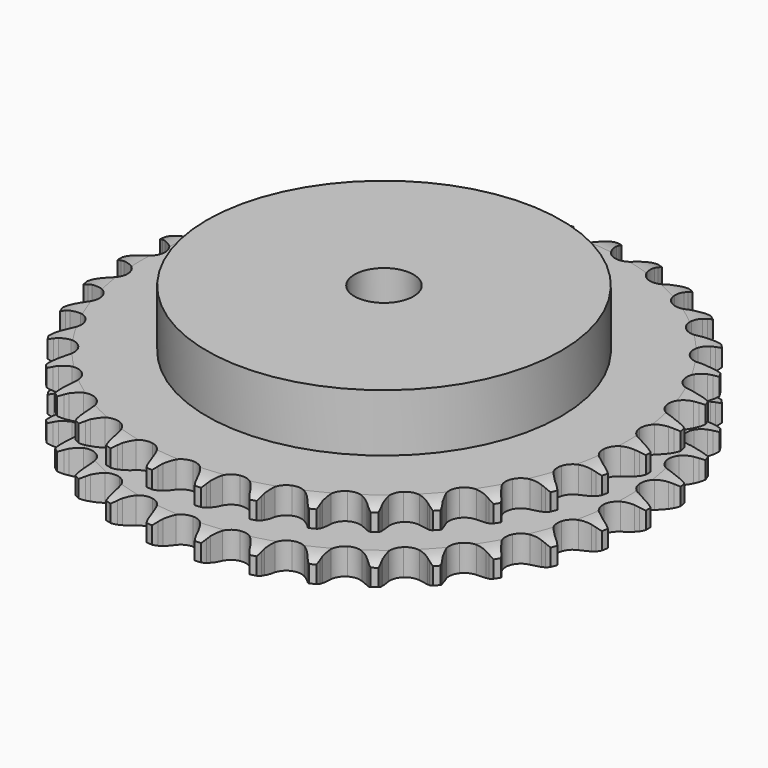
from build123d import *

# Parameters (mm, degrees)
PAD_DEPTH         = 25.5
SKETCH001_R       = 60
PAD001_DEPTH      = 45
SKETCH002_R       = 10
POCKET_DEPTH      = 0.001
POCKET_DEPTH_BACK = 45.001


with BuildPart() as part:
    # Sprocket → Pad (new body)
    with BuildSketch(Plane.XY):
        with BuildLine():
            ThreePointArc((-8.397927, 90.628064), (-7.241962, 89.220797), (-6.422502, 87.594409))
            Line((-6.422502, 87.594409), (-5.926845, 86.262465))
            ThreePointArc((-5.926845, 86.262465), (-5.142113, 84.540527), (-4.120459, 82.947699))
            ThreePointArc((-4.120459, 82.947699), (-2.304465, 81.427867), (0, 80.88274))
            ThreePointArc((0, 80.88274), (2.304465, 81.427867), (4.120459, 82.947699))
            ThreePointArc((4.120459, 82.947699), (5.142113, 84.540527), (5.926845, 86.262465))
            Line((5.926845, 86.262465), (6.422502, 87.594409))
            ThreePointArc((6.422502, 87.594409), (7.241962, 89.220797), (8.397927, 90.628064))
            ThreePointArc((8.397927, 90.628064), (9.275625, 89.032351), (9.782284, 87.28308))
            Line((9.782284, 87.28308), (10.024757, 85.882738))
            ThreePointArc((10.024757, 85.882738), (10.479723, 84.045925), (11.191299, 82.292489))
            ThreePointArc((11.191299, 82.292489), (12.697104, 80.464847), (14.862164, 79.505557))
            ThreePointArc((14.862164, 79.505557), (17.227559, 79.617958), (19.2919, 80.778225))
            Line((19.2919, 80.778225), (21.676616, 83.704628))
            ThreePointArc((21.676616, 83.704628), (22.026279, 84.323527), (22.408577, 84.922816))
            ThreePointArc((22.408577, 84.922816), (23.512932, 86.370937), (24.907799, 87.541834))
            ThreePointArc((24.907799, 87.541834), (25.477341, 85.812014), (25.653946, 83.99943))
            Line((25.653946, 83.99943), (25.634978, 82.578377))
            ThreePointArc((25.634978, 82.578377), (25.744684, 80.689239), (26.121952, 78.834908))
            ThreePointArc((26.121952, 78.834908), (27.266288, 76.761693), (29.218216, 75.420909))
            ThreePointArc((29.218216, 75.420909), (31.563988, 75.096756), (33.806379, 75.857945))
            Line((33.806379, 75.857945), (36.688215, 78.29633))
            ThreePointArc((36.688215, 78.29633), (37.145647, 78.840441), (37.631555, 79.359279))
            ThreePointArc((37.631555, 79.359279), (38.983198, 80.579818), (40.569466, 81.474471))
            ThreePointArc((40.569466, 81.474471), (40.811457, 79.669453), (40.651993, 77.855279))
            Line((40.651993, 77.855279), (40.372231, 76.461908))
            ThreePointArc((40.372231, 76.461908), (40.13294, 74.584778), (40.163052, 72.692697))
            ThreePointArc((40.163052, 72.692697), (40.906952, 70.444512), (42.579276, 68.767891))
            ThreePointArc((42.579276, 68.767891), (44.825544, 68.018223), (47.169622, 68.354413))
            Line((47.169622, 68.354413), (50.450442, 70.221744))
            ThreePointArc((50.450442, 70.221744), (51.000065, 70.672538), (51.573036, 71.093256))
            ThreePointArc((51.573036, 71.093256), (53.125937, 72.044649), (54.849589, 72.632594))
            ThreePointArc((54.849589, 72.632594), (54.755788, 70.813843), (54.265686, 69.059861))
            Line((54.265686, 69.059861), (53.734656, 67.741621))
            ThreePointArc((53.734656, 67.741621), (53.154518, 65.940422), (52.836448, 64.075025))
            ThreePointArc((52.836448, 64.075025), (53.154579, 61.728428), (54.490349, 59.773066))
            ThreePointArc((54.490349, 59.773066), (56.56062, 58.623411), (58.92656, 58.523154))
            Line((58.92656, 58.523154), (62.494639, 59.755841))
            ThreePointArc((62.494639, 59.755841), (63.117736, 60.097966), (63.758258, 60.406238))
            ThreePointArc((63.758258, 60.406238), (65.459537, 61.056087), (67.261874, 61.3173))
            ThreePointArc((67.261874, 61.3173), (66.835476, 59.546753), (66.031425, 57.912692))
            Line((66.031425, 57.912692), (65.267211, 56.714474))
            ThreePointArc((65.267211, 56.714474), (64.365982, 55.050544), (63.710562, 53.275354))
            ThreePointArc((63.710562, 53.275354), (63.59209, 50.910256), (64.54582, 48.74274))
            ThreePointArc((64.54582, 48.74274), (66.369591, 47.23225), (68.676824, 46.698959))
            Line((68.676824, 46.698959), (72.410656, 47.255025))
            ThreePointArc((72.410656, 47.255025), (73.086009, 47.47683), (73.77227, 47.662158))
            ThreePointArc((73.77227, 47.662158), (75.56399, 47.988332), (77.383638, 47.91392))
            ThreePointArc((77.383638, 47.91392), (76.639163, 46.25187), (75.548544, 44.793376))
            Line((75.548544, 44.793376), (74.57717, 43.755984))
            ThreePointArc((74.57717, 43.755984), (73.38554, 42.285986), (72.415089, 40.661455))
            ThreePointArc((72.415089, 40.661455), (71.864049, 38.358396), (72.403259, 36.052539))
            ThreePointArc((72.403259, 36.052539), (73.918426, 34.232651), (76.088382, 33.284488))
            Line((76.088382, 33.284488), (79.860815, 33.144995))
            ThreePointArc((79.860815, 33.144995), (80.565426, 33.238928), (81.274055, 33.295))
            ThreePointArc((81.274055, 33.295), (83.095203, 33.286393), (84.870194, 32.878888))
            ThreePointArc((84.870194, 32.878888), (83.832994, 31.381935), (82.492948, 30.148675))
            Line((82.492948, 30.148675), (81.347493, 29.307436))
            ThreePointArc((81.347493, 29.307436), (79.906041, 28.081429), (78.653607, 26.662879))
            ThreePointArc((78.653607, 26.662879), (77.688764, 24.500287), (77.795093, 22.134612))
            ThreePointArc((77.795093, 22.134612), (78.950057, 20.0673), (80.908841, 18.736552))
            Line((80.908841, 18.736552), (84.591409, 17.906252))
            ThreePointArc((84.591409, 17.906252), (85.301283, 17.869114), (86.00815, 17.794021))
            ThreePointArc((86.00815, 17.794021), (87.796708, 17.450926), (89.466597, 16.724205))
            ThreePointArc((89.466597, 16.724205), (88.171993, 15.443326), (86.628153, 14.477297))
            Line((86.628153, 14.477297), (85.347625, 13.860859))
            ThreePointArc((85.347625, 13.860859), (83.705438, 12.920593), (82.213671, 11.75633))
            ThreePointArc((82.213671, 11.75633), (80.867881, 9.807851), (80.537708, 7.462918))
            ThreePointArc((80.537708, 7.462918), (81.293139, 5.218581), (82.974047, 3.550566))
            Line((82.974047, 3.550566), (86.441345, 2.057734))
            ThreePointArc((86.441345, 2.057734), (87.132308, 1.890789), (87.813341, 1.687088))
            ThreePointArc((87.813341, 1.687088), (89.508401, 1.021188), (91.016323, 0))
            ThreePointArc((91.016323, 0), (89.508401, -1.021188), (87.813341, -1.687088))
            Line((87.813341, -1.687088), (86.441345, -2.057734))
            ThreePointArc((86.441345, -2.057734), (84.654346, -2.680238), (82.974047, -3.550566))
            ThreePointArc((82.974047, -3.550566), (81.293139, -5.218581), (80.537708, -7.462918))
            ThreePointArc((80.537708, -7.462918), (80.867881, -9.807851), (82.213671, -11.75633))
            Line((82.213671, -11.75633), (85.347625, -13.860859))
            ThreePointArc((85.347625, -13.860859), (85.996146, -14.151925), (86.628153, -14.477297))
            ThreePointArc((86.628153, -14.477297), (88.171993, -15.443326), (89.466597, -16.724205))
            ThreePointArc((89.466597, -16.724205), (87.796708, -17.450926), (86.00815, -17.794021))
            Line((86.00815, -17.794021), (84.591409, -17.906252))
            ThreePointArc((84.591409, -17.906252), (82.720453, -18.189798), (80.908841, -18.736552))
            ThreePointArc((80.908841, -18.736552), (78.950057, -20.0673), (77.795093, -22.134612))
            ThreePointArc((77.795093, -22.134612), (77.688764, -24.500287), (78.653607, -26.662879))
            Line((78.653607, -26.662879), (81.347493, -29.307436))
            ThreePointArc((81.347493, -29.307436), (81.931489, -29.712712), (82.492948, -30.148675))
            ThreePointArc((82.492948, -30.148675), (83.832994, -31.381935), (84.870194, -32.878888))
            ThreePointArc((84.870194, -32.878888), (83.095203, -33.286393), (81.274055, -33.295))
            Line((81.274055, -33.295), (79.860815, -33.144995))
            ThreePointArc((79.860815, -33.144995), (77.969613, -33.079925), (76.088382, -33.284488))
            ThreePointArc((76.088382, -33.284488), (73.918426, -34.232651), (72.403259, -36.052539))
            ThreePointArc((72.403259, -36.052539), (71.864049, -38.358396), (72.415089, -40.661455))
            Line((72.415089, -40.661455), (74.57717, -43.755984))
            ThreePointArc((74.57717, -43.755984), (75.076753, -44.261668), (75.548544, -44.793376))
            ThreePointArc((75.548544, -44.793376), (76.639163, -46.25187), (77.383638, -47.91392))
            ThreePointArc((77.383638, -47.91392), (75.56399, -47.988332), (73.77227, -47.662158))
            Line((73.77227, -47.662158), (72.410656, -47.255025))
            ThreePointArc((72.410656, -47.255025), (70.563612, -46.843555), (68.676824, -46.698959))
            ThreePointArc((68.676824, -46.698959), (66.369591, -47.23225), (64.54582, -48.74274))
            ThreePointArc((64.54582, -48.74274), (63.59209, -50.910256), (63.710562, -53.275354))
            Line((63.710562, -53.275354), (65.267211, -56.714474))
            ThreePointArc((65.267211, -56.714474), (65.665369, -57.303346), (66.031425, -57.912692))
            ThreePointArc((66.031425, -57.912692), (66.835476, -59.546753), (67.261874, -61.3173))
            ThreePointArc((67.261874, -61.3173), (65.459537, -61.056087), (63.758258, -60.406238))
            Line((63.758258, -60.406238), (62.494639, -59.755841))
            ThreePointArc((62.494639, -59.755841), (60.754652, -59.011984), (58.92656, -58.523154))
            ThreePointArc((58.92656, -58.523154), (56.56062, -58.623411), (54.490349, -59.773066))
            ThreePointArc((54.490349, -59.773066), (53.154579, -61.728428), (52.836448, -64.075025))
            Line((52.836448, -64.075025), (53.734656, -67.741621))
            ThreePointArc((53.734656, -67.741621), (54.017829, -68.393628), (54.265686, -69.059861))
            ThreePointArc((54.265686, -69.059861), (54.755788, -70.813843), (54.849589, -72.632594))
            ThreePointArc((54.849589, -72.632594), (53.125937, -72.044649), (51.573036, -71.093256))
            Line((51.573036, -71.093256), (50.450442, -70.221744))
            ThreePointArc((50.450442, -70.221744), (48.876765, -69.170831), (47.169622, -68.354413))
            ThreePointArc((47.169622, -68.354413), (44.825544, -68.018223), (42.579276, -68.767891))
            ThreePointArc((42.579276, -68.767891), (40.906952, -70.444512), (40.163052, -72.692697))
            Line((40.163052, -72.692697), (40.372231, -76.461908))
            ThreePointArc((40.372231, -76.461908), (40.530776, -77.154846), (40.651993, -77.855279))
            ThreePointArc((40.651993, -77.855279), (40.811457, -79.669453), (40.569466, -81.474471))
            ThreePointArc((40.569466, -81.474471), (38.983198, -80.579818), (37.631555, -79.359279))
            Line((37.631555, -79.359279), (36.688215, -78.29633))
            ThreePointArc((36.688215, -78.29633), (35.334438, -76.974148), (33.806379, -75.857945))
            ThreePointArc((33.806379, -75.857945), (31.563988, -75.096756), (29.218216, -75.420909))
            ThreePointArc((29.218216, -75.420909), (27.266288, -76.761693), (26.121952, -78.834908))
            Line((26.121952, -78.834908), (25.634978, -82.578377))
            ThreePointArc((25.634978, -82.578377), (25.663497, -83.288649), (25.653946, -83.99943))
            ThreePointArc((25.653946, -83.99943), (25.477341, -85.812014), (24.907799, -87.541834))
            ThreePointArc((24.907799, -87.541834), (23.512932, -86.370937), (22.408577, -84.922816))
            Line((22.408577, -84.922816), (21.676616, -83.704628))
            ThreePointArc((21.676616, -83.704628), (20.58884, -82.156203), (19.2919, -80.778225))
            ThreePointArc((19.2919, -80.778225), (17.227559, -79.617958), (14.862164, -79.505557))
            ThreePointArc((14.862164, -79.505557), (12.697104, -80.464847), (11.191299, -82.292489))
            Line((11.191299, -82.292489), (10.024757, -85.882738))
            ThreePointArc((10.024757, -85.882738), (9.922278, -86.586157), (9.782284, -87.28308))
            ThreePointArc((9.782284, -87.28308), (9.275625, -89.032351), (8.397927, -90.628064))
            ThreePointArc((8.397927, -90.628064), (7.241962, -89.220797), (6.422502, -87.594409))
            Line((6.422502, -87.594409), (5.926845, -86.262465))
            ThreePointArc((5.926845, -86.262465), (5.142113, -84.540527), (4.120459, -82.947699))
            ThreePointArc((4.120459, -82.947699), (2.304465, -81.427867), (0, -80.88274))
            ThreePointArc((0, -80.88274), (-2.304465, -81.427867), (-4.120459, -82.947699))
            Line((-4.120459, -82.947699), (-5.926845, -86.262465))
            ThreePointArc((-5.926845, -86.262465), (-6.156832, -86.935077), (-6.422502, -87.594409))
            ThreePointArc((-6.422502, -87.594409), (-7.241962, -89.220797), (-8.397927, -90.628064))
            ThreePointArc((-8.397927, -90.628064), (-9.275625, -89.032351), (-9.782284, -87.28308))
            Line((-9.782284, -87.28308), (-10.024757, -85.882738))
            ThreePointArc((-10.024757, -85.882738), (-10.479723, -84.045925), (-11.191299, -82.292489))
            ThreePointArc((-11.191299, -82.292489), (-12.697104, -80.464847), (-14.862164, -79.505557))
            ThreePointArc((-14.862164, -79.505557), (-17.227559, -79.617958), (-19.2919, -80.778225))
            Line((-19.2919, -80.778225), (-21.676616, -83.704628))
            ThreePointArc((-21.676616, -83.704628), (-22.026279, -84.323527), (-22.408577, -84.922816))
            ThreePointArc((-22.408577, -84.922816), (-23.512932, -86.370937), (-24.907799, -87.541834))
            ThreePointArc((-24.907799, -87.541834), (-25.477341, -85.812014), (-25.653946, -83.99943))
            Line((-25.653946, -83.99943), (-25.634978, -82.578377))
            ThreePointArc((-25.634978, -82.578377), (-25.744684, -80.689239), (-26.121952, -78.834908))
            ThreePointArc((-26.121952, -78.834908), (-27.266288, -76.761693), (-29.218216, -75.420909))
            ThreePointArc((-29.218216, -75.420909), (-31.563988, -75.096756), (-33.806379, -75.857945))
            Line((-33.806379, -75.857945), (-36.688215, -78.29633))
            ThreePointArc((-36.688215, -78.29633), (-37.145647, -78.840441), (-37.631555, -79.359279))
            ThreePointArc((-37.631555, -79.359279), (-38.983198, -80.579818), (-40.569466, -81.474471))
            ThreePointArc((-40.569466, -81.474471), (-40.811457, -79.669453), (-40.651993, -77.855279))
            Line((-40.651993, -77.855279), (-40.372231, -76.461908))
            ThreePointArc((-40.372231, -76.461908), (-40.13294, -74.584778), (-40.163052, -72.692697))
            ThreePointArc((-40.163052, -72.692697), (-40.906952, -70.444512), (-42.579276, -68.767891))
            ThreePointArc((-42.579276, -68.767891), (-44.825544, -68.018223), (-47.169622, -68.354413))
            Line((-47.169622, -68.354413), (-50.450442, -70.221744))
            ThreePointArc((-50.450442, -70.221744), (-51.000065, -70.672538), (-51.573036, -71.093256))
            ThreePointArc((-51.573036, -71.093256), (-53.125937, -72.044649), (-54.849589, -72.632594))
            ThreePointArc((-54.849589, -72.632594), (-54.755788, -70.813843), (-54.265686, -69.059861))
            Line((-54.265686, -69.059861), (-53.734656, -67.741621))
            ThreePointArc((-53.734656, -67.741621), (-53.154518, -65.940422), (-52.836448, -64.075025))
            ThreePointArc((-52.836448, -64.075025), (-53.154579, -61.728428), (-54.490349, -59.773066))
            ThreePointArc((-54.490349, -59.773066), (-56.56062, -58.623411), (-58.92656, -58.523154))
            Line((-58.92656, -58.523154), (-62.494639, -59.755841))
            ThreePointArc((-62.494639, -59.755841), (-63.117736, -60.097966), (-63.758258, -60.406238))
            ThreePointArc((-63.758258, -60.406238), (-65.459537, -61.056087), (-67.261874, -61.3173))
            ThreePointArc((-67.261874, -61.3173), (-66.835476, -59.546753), (-66.031425, -57.912692))
            Line((-66.031425, -57.912692), (-65.267211, -56.714474))
            ThreePointArc((-65.267211, -56.714474), (-64.365982, -55.050544), (-63.710562, -53.275354))
            ThreePointArc((-63.710562, -53.275354), (-63.59209, -50.910256), (-64.54582, -48.74274))
            ThreePointArc((-64.54582, -48.74274), (-66.369591, -47.23225), (-68.676824, -46.698959))
            Line((-68.676824, -46.698959), (-72.410656, -47.255025))
            ThreePointArc((-72.410656, -47.255025), (-73.086009, -47.47683), (-73.77227, -47.662158))
            ThreePointArc((-73.77227, -47.662158), (-75.56399, -47.988332), (-77.383638, -47.91392))
            ThreePointArc((-77.383638, -47.91392), (-76.639163, -46.25187), (-75.548544, -44.793376))
            Line((-75.548544, -44.793376), (-74.57717, -43.755984))
            ThreePointArc((-74.57717, -43.755984), (-73.38554, -42.285986), (-72.415089, -40.661455))
            ThreePointArc((-72.415089, -40.661455), (-71.864049, -38.358396), (-72.403259, -36.052539))
            ThreePointArc((-72.403259, -36.052539), (-73.918426, -34.232651), (-76.088382, -33.284488))
            Line((-76.088382, -33.284488), (-79.860815, -33.144995))
            ThreePointArc((-79.860815, -33.144995), (-80.565426, -33.238928), (-81.274055, -33.295))
            ThreePointArc((-81.274055, -33.295), (-83.095203, -33.286393), (-84.870194, -32.878888))
            ThreePointArc((-84.870194, -32.878888), (-83.832994, -31.381935), (-82.492948, -30.148675))
            Line((-82.492948, -30.148675), (-81.347493, -29.307436))
            ThreePointArc((-81.347493, -29.307436), (-79.906041, -28.081429), (-78.653607, -26.662879))
            ThreePointArc((-78.653607, -26.662879), (-77.688764, -24.500287), (-77.795093, -22.134612))
            ThreePointArc((-77.795093, -22.134612), (-78.950057, -20.0673), (-80.908841, -18.736552))
            Line((-80.908841, -18.736552), (-84.591409, -17.906252))
            ThreePointArc((-84.591409, -17.906252), (-85.301283, -17.869114), (-86.00815, -17.794021))
            ThreePointArc((-86.00815, -17.794021), (-87.796708, -17.450926), (-89.466597, -16.724205))
            ThreePointArc((-89.466597, -16.724205), (-88.171993, -15.443326), (-86.628153, -14.477297))
            Line((-86.628153, -14.477297), (-85.347625, -13.860859))
            ThreePointArc((-85.347625, -13.860859), (-83.705438, -12.920593), (-82.213671, -11.75633))
            ThreePointArc((-82.213671, -11.75633), (-80.867881, -9.807851), (-80.537708, -7.462918))
            ThreePointArc((-80.537708, -7.462918), (-81.293139, -5.218581), (-82.974047, -3.550566))
            Line((-82.974047, -3.550566), (-86.441345, -2.057734))
            ThreePointArc((-86.441345, -2.057734), (-87.132308, -1.890789), (-87.813341, -1.687088))
            ThreePointArc((-87.813341, -1.687088), (-89.508401, -1.021188), (-91.016323, 0))
            ThreePointArc((-91.016323, 0), (-89.508401, 1.021188), (-87.813341, 1.687088))
            Line((-87.813341, 1.687088), (-86.441345, 2.057734))
            ThreePointArc((-86.441345, 2.057734), (-84.654346, 2.680238), (-82.974047, 3.550566))
            ThreePointArc((-82.974047, 3.550566), (-81.293139, 5.218581), (-80.537708, 7.462918))
            ThreePointArc((-80.537708, 7.462918), (-80.867881, 9.807851), (-82.213671, 11.75633))
            Line((-82.213671, 11.75633), (-85.347625, 13.860859))
            ThreePointArc((-85.347625, 13.860859), (-85.996146, 14.151925), (-86.628153, 14.477297))
            ThreePointArc((-86.628153, 14.477297), (-88.171993, 15.443326), (-89.466597, 16.724205))
            ThreePointArc((-89.466597, 16.724205), (-87.796708, 17.450926), (-86.00815, 17.794021))
            Line((-86.00815, 17.794021), (-84.591409, 17.906252))
            ThreePointArc((-84.591409, 17.906252), (-82.720453, 18.189798), (-80.908841, 18.736552))
            ThreePointArc((-80.908841, 18.736552), (-78.950057, 20.0673), (-77.795093, 22.134612))
            ThreePointArc((-77.795093, 22.134612), (-77.688764, 24.500287), (-78.653607, 26.662879))
            Line((-78.653607, 26.662879), (-81.347493, 29.307436))
            ThreePointArc((-81.347493, 29.307436), (-81.931489, 29.712712), (-82.492948, 30.148675))
            ThreePointArc((-82.492948, 30.148675), (-83.832994, 31.381935), (-84.870194, 32.878888))
            ThreePointArc((-84.870194, 32.878888), (-83.095203, 33.286393), (-81.274055, 33.295))
            Line((-81.274055, 33.295), (-79.860815, 33.144995))
            ThreePointArc((-79.860815, 33.144995), (-77.969613, 33.079925), (-76.088382, 33.284488))
            ThreePointArc((-76.088382, 33.284488), (-73.918426, 34.232651), (-72.403259, 36.052539))
            ThreePointArc((-72.403259, 36.052539), (-71.864049, 38.358396), (-72.415089, 40.661455))
            Line((-72.415089, 40.661455), (-74.57717, 43.755984))
            ThreePointArc((-74.57717, 43.755984), (-75.076753, 44.261668), (-75.548544, 44.793376))
            ThreePointArc((-75.548544, 44.793376), (-76.639163, 46.25187), (-77.383638, 47.91392))
            ThreePointArc((-77.383638, 47.91392), (-75.56399, 47.988332), (-73.77227, 47.662158))
            Line((-73.77227, 47.662158), (-72.410656, 47.255025))
            ThreePointArc((-72.410656, 47.255025), (-70.563612, 46.843555), (-68.676824, 46.698959))
            ThreePointArc((-68.676824, 46.698959), (-66.369591, 47.23225), (-64.54582, 48.74274))
            ThreePointArc((-64.54582, 48.74274), (-63.59209, 50.910256), (-63.710562, 53.275354))
            Line((-63.710562, 53.275354), (-65.267211, 56.714474))
            ThreePointArc((-65.267211, 56.714474), (-65.665369, 57.303346), (-66.031425, 57.912692))
            ThreePointArc((-66.031425, 57.912692), (-66.835476, 59.546753), (-67.261874, 61.3173))
            ThreePointArc((-67.261874, 61.3173), (-65.459537, 61.056087), (-63.758258, 60.406238))
            Line((-63.758258, 60.406238), (-62.494639, 59.755841))
            ThreePointArc((-62.494639, 59.755841), (-60.754652, 59.011984), (-58.92656, 58.523154))
            ThreePointArc((-58.92656, 58.523154), (-56.56062, 58.623411), (-54.490349, 59.773066))
            ThreePointArc((-54.490349, 59.773066), (-53.154579, 61.728428), (-52.836448, 64.075025))
            Line((-52.836448, 64.075025), (-53.734656, 67.741621))
            ThreePointArc((-53.734656, 67.741621), (-54.017829, 68.393628), (-54.265686, 69.059861))
            ThreePointArc((-54.265686, 69.059861), (-54.755788, 70.813843), (-54.849589, 72.632594))
            ThreePointArc((-54.849589, 72.632594), (-53.125937, 72.044649), (-51.573036, 71.093256))
            Line((-51.573036, 71.093256), (-50.450442, 70.221744))
            ThreePointArc((-50.450442, 70.221744), (-48.876765, 69.170831), (-47.169622, 68.354413))
            ThreePointArc((-47.169622, 68.354413), (-44.825544, 68.018223), (-42.579276, 68.767891))
            ThreePointArc((-42.579276, 68.767891), (-40.906952, 70.444512), (-40.163052, 72.692697))
            Line((-40.163052, 72.692697), (-40.372231, 76.461908))
            ThreePointArc((-40.372231, 76.461908), (-40.530776, 77.154846), (-40.651993, 77.855279))
            ThreePointArc((-40.651993, 77.855279), (-40.811457, 79.669453), (-40.569466, 81.474471))
            ThreePointArc((-40.569466, 81.474471), (-38.983198, 80.579818), (-37.631555, 79.359279))
            Line((-37.631555, 79.359279), (-36.688215, 78.29633))
            ThreePointArc((-36.688215, 78.29633), (-35.334438, 76.974148), (-33.806379, 75.857945))
            ThreePointArc((-33.806379, 75.857945), (-31.563988, 75.096756), (-29.218216, 75.420909))
            ThreePointArc((-29.218216, 75.420909), (-27.266288, 76.761693), (-26.121952, 78.834908))
            Line((-26.121952, 78.834908), (-25.634978, 82.578377))
            ThreePointArc((-25.634978, 82.578377), (-25.663497, 83.288649), (-25.653946, 83.99943))
            ThreePointArc((-25.653946, 83.99943), (-25.477341, 85.812014), (-24.907799, 87.541834))
            ThreePointArc((-24.907799, 87.541834), (-23.512932, 86.370937), (-22.408577, 84.922816))
            Line((-22.408577, 84.922816), (-21.676616, 83.704628))
            ThreePointArc((-21.676616, 83.704628), (-20.58884, 82.156203), (-19.2919, 80.778225))
            ThreePointArc((-19.2919, 80.778225), (-17.227559, 79.617958), (-14.862164, 79.505557))
            ThreePointArc((-14.862164, 79.505557), (-12.697104, 80.464847), (-11.191299, 82.292489))
            Line((-11.191299, 82.292489), (-10.024757, 85.882738))
            ThreePointArc((-10.024757, 85.882738), (-9.922278, 86.586157), (-9.782284, 87.28308))
            ThreePointArc((-9.782284, 87.28308), (-9.275625, 89.032351), (-8.397927, 90.628064))
        make_face()
    extrude(amount=PAD_DEPTH)

    # Sketch → Groove (revolve, cut)
    with BuildSketch(Plane.XZ):
        with BuildLine():
            ThreePointArc((82.525762, 0), (86.10347, 0.405129), (89.5, 1.6))
            Line((89.5, 1.6), (89.5, 7.4))
            ThreePointArc((89.5, 7.4), (86.10347, 8.594871), (82.525762, 9))
            Line((60, 9), (82.525762, 9))
            Line((60, 16.5), (60, 9))
            Line((82.525762, 16.5), (60, 16.5))
            ThreePointArc((82.525762, 16.5), (86.10347, 16.905129), (89.5, 18.1))
            Line((89.5, 18.1), (89.5, 23.9))
            ThreePointArc((89.5, 23.9), (86.10347, 25.094871), (82.525762, 25.5))
            Line((82.525762, 25.5), (92.525762, 25.5))
            Line((92.525762, 25.5), (92.525762, 0))
            Line((82.525762, 0), (92.525762, 0))
        make_face()
    revolve(axis=Axis((0, 0, 0), (0, 0, 1)), mode=Mode.SUBTRACT)

    # Sketch001 → Pad001 (join)
    with BuildSketch(Plane.XY):
        Circle(SKETCH001_R)
    extrude(amount=PAD001_DEPTH)

    # Sketch002 → Pocket (cut, two sides)
    with BuildSketch(Plane.XY) as pocket_sk:
        Circle(SKETCH002_R)
    extrude(amount=-POCKET_DEPTH, mode=Mode.SUBTRACT)
    extrude(pocket_sk.sketch, amount=POCKET_DEPTH_BACK, mode=Mode.SUBTRACT)


solid = part.part
